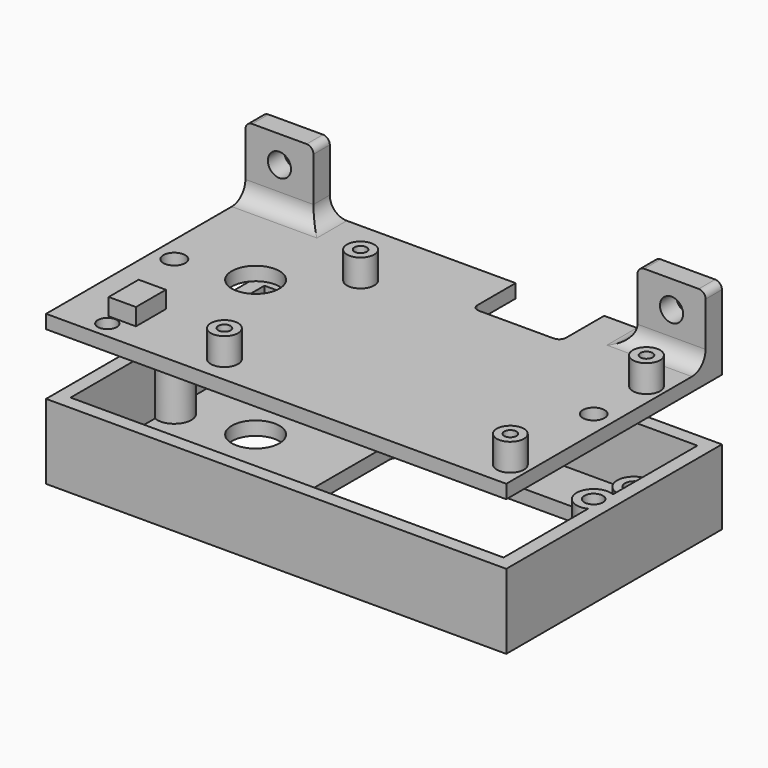
from build123d import *

# Parameters (mm, degrees)
SKETCH_W                           = 67.6
SKETCH_H                           = 39.6
SKETCH_R                           = 3.5
SKETCH_W_2                         = 33.6
SKETCH_H_2                         = 17.4
PAD_DEPTH                          = 2
SKETCH001_R                        = 2.5
PAD001_DEPTH                       = 3
SKETCH002_R                        = 1.35
POCKET_DEPTH                       = 4
SKETCH001_LINEARPATTERN_2_R        = 2.5
PAD001_LINEARPATTERN_2_DEPTH       = 3
SKETCH002_LINEARPATTERN_2_R        = 1.35
POCKET_LINEARPATTERN_2_DEPTH       = 4
LINEARPATTERN001_COUNT             = 2
LINEARPATTERN001_PITCH             = 28.6
SKETCH003_W                        = 67.6
SKETCH003_H                        = 39.6
SKETCH003_W_2                      = 63.6
SKETCH003_H_2                      = 35.6
PAD002_DEPTH                       = 9
FILLET_R                           = 1
SKETCH013_R                        = 2.5
PAD006_DEPTH                       = 9
SKETCH014_R                        = 1.35
POCKET004_DEPTH                    = 8
LINEARPATTERN002_COUNT             = 2
LINEARPATTERN002_PITCH             = 61.6
SKETCH006_W                        = 67.6
SKETCH006_H                        = 39.6
PAD003_DEPTH                       = 2
SKETCH008_R                        = 3.5
POCKET002_DEPTH                    = 10
SKETCH009_W                        = 10
SKETCH009_H                        = 3
PAD005_DEPTH                       = 10
SKETCH011_R                        = 1.7
HOLE_DEPTH                         = 3
SKETCH012_W                        = 13
SKETCH012_H                        = 8
POCKET003_DEPTH                    = 5
FILLET001_R                        = 2.5
FILLET002_R                        = 1
FILLET003_R                        = 1
SKETCH015_R                        = 1.6
HOLE001_DEPTH                      = 5
LINEARPATTERN003_COUNT             = 2
LINEARPATTERN003_PITCH             = 61.6
SKETCH016_R                        = 2
PAD007_DEPTH                       = 4
SKETCH017_R                        = 0.9
POCKET005_DEPTH                    = 5
SKETCH016_LINEARPATTERN004_2_R     = 2
PAD007_LINEARPATTERN004_2_DEPTH    = 4
SKETCH017_LINEARPATTERN004_2_R     = 0.9
POCKET005_LINEARPATTERN004_2_DEPTH = 5
LINEARPATTERN005_COUNT             = 2
LINEARPATTERN005_PITCH             = 25
SKETCH018_R                        = 1.4
POCKET006_DEPTH                    = 5
SKETCH019_W                        = 4
SKETCH019_H                        = 5.5
PAD008_DEPTH                       = 2.5


with BuildPart() as box:
    # Sketch → Pad (new body)
    with BuildSketch(Plane.XY):
        with Locations((33.8, 19.8)):
            Rectangle(SKETCH_W, SKETCH_H)
        with Locations((13.5, 21.6)):
            Circle(SKETCH_R, mode=Mode.SUBTRACT)
        with Locations((43.8, 21.6)):
            Rectangle(SKETCH_W_2, SKETCH_H_2, mode=Mode.SUBTRACT)
    extrude(amount=PAD_DEPTH)

    # Sketch001 (on Face11 of Pad) → Pad001 (join)
    with BuildSketch(Plane.XY.offset(2)):
        with Locations((28.5, 5.5)):
            Circle(SKETCH001_R)
    pad001 = extrude(amount=PAD001_DEPTH)

    # Sketch002 (on Face13 of Pad001) → Pocket (cut)
    with BuildSketch(Plane.XY.offset(5)):
        with Locations((28.5, 5.5)):
            Circle(SKETCH002_R)
    pocket = extrude(amount=-POCKET_DEPTH, mode=Mode.SUBTRACT)

    # Sketch001 LinearPattern 2 → Pad001 LinearPattern 2 (add)
    with BuildSketch(Plane(origin=(30.6, 0, 2), x_dir=(1, 0, 0), z_dir=(0, 0, 1))):
        with Locations((28.5, 5.5)):
            Circle(SKETCH001_LINEARPATTERN_2_R)
    pad001_linearpattern_2 = extrude(amount=PAD001_LINEARPATTERN_2_DEPTH)

    # Sketch002 LinearPattern 2 → Pocket LinearPattern 2 (cut)
    with BuildSketch(Plane(origin=(30.6, 0, 5), x_dir=(1, 0, 0), z_dir=(0, 0, 1))):
        with Locations((28.5, 5.5)):
            Circle(SKETCH002_LINEARPATTERN_2_R)
    pocket_linearpattern_2 = extrude(amount=-POCKET_LINEARPATTERN_2_DEPTH, mode=Mode.SUBTRACT)

    # LinearPattern001: Pad001, Pocket, Pad001 LinearPattern 2, Pocket LinearPattern 2 ×2
    with Locations(*[(0, i * LINEARPATTERN001_PITCH, 0) for i in range(1, LINEARPATTERN001_COUNT)]):
        add(pad001)
        add(pocket, mode=Mode.SUBTRACT)
        add(pad001_linearpattern_2)
        add(pocket_linearpattern_2, mode=Mode.SUBTRACT)

    # Sketch003 (on Face5 of MultiTransform) → Pad002 (join)
    with BuildSketch(Plane.XY.offset(2)):
        with Locations((33.8, 19.8)):
            Rectangle(SKETCH003_W, SKETCH003_H)
        with Locations((33.8, 19.8)):
            Rectangle(SKETCH003_W_2, SKETCH003_H_2, mode=Mode.SUBTRACT)
    extrude(amount=PAD002_DEPTH)

    # Fillet
    fillet_edges = [box.edges().sort_by_distance(p)[0] for p in [
        (60.6, 12.9, 1),
        (60.6, 30.3, 1),
        (27, 30.3, 1),
        (27, 12.9, 1),
    ]]
    fillet(fillet_edges, radius=FILLET_R)

    # Sketch013 (on Face15 of Fillet) → Pad006 (join)
    with BuildSketch(Plane.XY.offset(2)):
        with Locations((3, 19.8)):
            Circle(SKETCH013_R)
    pad006 = extrude(amount=PAD006_DEPTH)

    # Sketch014 (on Face31 of Pad006) → Pocket004 (cut)
    with BuildSketch(Plane.XY.offset(11)):
        with Locations((3, 19.8)):
            Circle(SKETCH014_R)
    pocket004 = extrude(amount=-POCKET004_DEPTH, mode=Mode.SUBTRACT)

    # LinearPattern002: Pad006, Pocket004 ×2
    with Locations(*[(i * LINEARPATTERN002_PITCH, 0, 0) for i in range(1, LINEARPATTERN002_COUNT)]):
        add(pad006)
        add(pocket004, mode=Mode.SUBTRACT)


with BuildPart() as cover:
    # Sketch006 → Pad003 (new body)
    with BuildSketch(Plane.XY):
        with Locations((33.8, 19.8)):
            Rectangle(SKETCH006_W, SKETCH006_H)
    extrude(amount=PAD003_DEPTH)

    # Sketch008 (on Face6 of Pad003) → Pocket002 (cut)
    with BuildSketch(Plane.XY.offset(2)):
        with Locations((13.5, 21.6)):
            Circle(SKETCH008_R)
    extrude(amount=-POCKET002_DEPTH, mode=Mode.SUBTRACT)

    # Sketch009 (on Face5 of Pocket002) → Pad005 (join)
    with BuildSketch(Plane.XY.offset(2)):
        with Locations((5, 38.1)):
            Rectangle(SKETCH009_W, SKETCH009_H)
        with Locations((62.6, 38.1)):
            Rectangle(SKETCH009_W, SKETCH009_H)
    extrude(amount=PAD005_DEPTH)

    # Sketch011 (on Face5 of Pad005) → Hole (cut)
    with BuildSketch(Plane(origin=(0, 39.6, 0), x_dir=(-1, 0, 0), z_dir=(0, 1, 0))):
        with Locations((-5, 8)):
            Circle(SKETCH011_R)
        with Locations((-62.6, 8)):
            Circle(SKETCH011_R)
    extrude(amount=-HOLE_DEPTH, mode=Mode.SUBTRACT)

    # Sketch012 (on Face6 of Hole) → Pocket003 (cut)
    with BuildSketch(Plane.XY.offset(2)):
        with Locations((43.8, 35.6)):
            Rectangle(SKETCH012_W, SKETCH012_H)
    extrude(amount=-POCKET003_DEPTH, mode=Mode.SUBTRACT)

    # Fillet001
    fillet001_edges = [cover.edges().sort_by_distance(p)[0] for p in [
        (5, 36.6, 2),
        (62.6, 36.6, 2),
        (57.6, 38.1, 2),
        (10, 38.1, 2),
    ]]
    fillet(fillet001_edges, radius=FILLET001_R)

    # Fillet002
    fillet002_edges = [cover.edges().sort_by_distance(p)[0] for p in [
        (50.3, 31.6, 1),
        (37.3, 31.6, 1),
    ]]
    fillet(fillet002_edges, radius=FILLET002_R)

    # Fillet003
    fillet003_edges = [cover.edges().sort_by_distance(p)[0] for p in [
        (0, 38.1, 12),
        (10, 38.1, 12),
        (57.6, 38.1, 12),
        (67.6, 38.1, 12),
    ]]
    fillet(fillet003_edges, radius=FILLET003_R)

    # Sketch015 (on Face11 of Fillet003) → Hole001 (cut)
    with BuildSketch(Plane.XY.offset(2)):
        with Locations((3, 19.8)):
            Circle(SKETCH015_R)
    hole001 = extrude(amount=-HOLE001_DEPTH, mode=Mode.SUBTRACT)

    # LinearPattern003: Hole001 ×2
    with Locations(*[(i * LINEARPATTERN003_PITCH, 0, 0) for i in range(1, LINEARPATTERN003_COUNT)]):
        add(hole001, mode=Mode.SUBTRACT)

    # Sketch016 (on Face11 of LinearPattern003) → Pad007 (join)
    with BuildSketch(Plane.XY.offset(2)):
        with Locations((23, 4)):
            Circle(SKETCH016_R)
    pad007 = extrude(amount=PAD007_DEPTH)

    # Sketch017 (on Face33 of Pad007) → Pocket005 (cut)
    with BuildSketch(Plane.XY.offset(6)):
        with Locations((23, 4)):
            Circle(SKETCH017_R)
    pocket005 = extrude(amount=-POCKET005_DEPTH, mode=Mode.SUBTRACT)

    # Sketch016 LinearPattern004 2 → Pad007 LinearPattern004 2 (add)
    with BuildSketch(Plane(origin=(42, 0, 2), x_dir=(1, 0, 0), z_dir=(0, 0, 1))):
        with Locations((23, 4)):
            Circle(SKETCH016_LINEARPATTERN004_2_R)
    pad007_linearpattern004_2 = extrude(amount=PAD007_LINEARPATTERN004_2_DEPTH)

    # Sketch017 LinearPattern004 2 → Pocket005 LinearPattern004 2 (cut)
    with BuildSketch(Plane(origin=(42, 0, 6), x_dir=(1, 0, 0), z_dir=(0, 0, 1))):
        with Locations((23, 4)):
            Circle(SKETCH017_LINEARPATTERN004_2_R)
    pocket005_linearpattern004_2 = extrude(amount=-POCKET005_LINEARPATTERN004_2_DEPTH, mode=Mode.SUBTRACT)

    # LinearPattern005: Pad007, Pocket005, Pad007 LinearPattern004 2, Pocket005 LinearPattern004 2 ×2
    with Locations(*[(0, i * LINEARPATTERN005_PITCH, 0) for i in range(1, LINEARPATTERN005_COUNT)]):
        add(pad007)
        add(pocket005, mode=Mode.SUBTRACT)
        add(pad007_linearpattern004_2)
        add(pocket005_linearpattern004_2, mode=Mode.SUBTRACT)

    # Sketch018 (on Face11 of MultiTransform001) → Pocket006 (cut)
    with BuildSketch(Plane.XY.offset(2)):
        with Locations((7, 2.5)):
            Circle(SKETCH018_R)
        with Locations((7, 11)):
            Circle(SKETCH018_R)
    extrude(amount=-POCKET006_DEPTH, mode=Mode.SUBTRACT)

    # Sketch019 (on Face11 of Pocket006) → Pad008 (join)
    with BuildSketch(Plane.XY.offset(2)):
        with Locations((8, 6.75)):
            Rectangle(SKETCH019_W, SKETCH019_H)
    extrude(amount=PAD008_DEPTH)


with BuildPart() as cover_1:
    # Body001 placement: moved
    add(cover.part.moved(Location((0, 0, 20))))


solid = Compound([box.part, cover_1.part])
